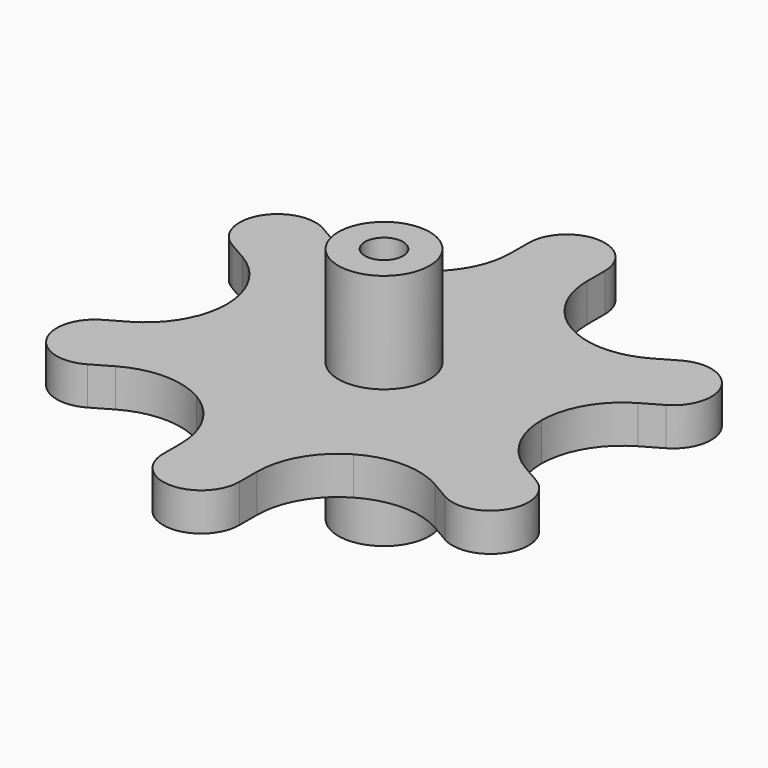
from build123d import *

# Parameters (mm, degrees)
F1_DEPTH = 1
F2_COUNT = 6
F3_R     = 2.4
F4_DEPTH = 6.25
F5_R     = 1
F6_DEPTH = 12.501


with BuildPart() as f1:
    # F0 (on Top) → F1 (new body, symmetric)
    with BuildSketch(Plane.XY):
        with BuildLine():
            Line((2, 10.8452994616), (2, 12))
            ThreePointArc((2, 12), (0, 14), (-2, 12))
            Line((-2, 12), (-2, 10.8452994616))
            ThreePointArc((-2, 10.8452994616), (-2.5709376404, 8.7145311798), (-4.1307682818, 7.1547005384))
            Line((-4.1307682818, 7.1547005384), (0, 0))
            Line((0, 0), (4.1307682818, 7.1547005384))
            ThreePointArc((4.1307682818, 7.1547005384), (2.5709376404, 8.7145311798), (2, 10.8452994616))
        make_face()
    extrude(amount=F1_DEPTH, both=True)

    # F2: F1 ×6 about axis
    f2_axis = Axis((0, 0, 0), (0, 0, -1))


with BuildPart() as f1_1:
    add(f1.part)
    for i in range(1, F2_COUNT):
        add(f1.part.rotate(f2_axis, i * 360 / F2_COUNT))

    # F3 (on Top) → F4 (join, symmetric)
    with BuildSketch(Plane.XY):
        Circle(F3_R)
    extrude(amount=F4_DEPTH, both=True)

    # F5 (on face) → F6 (cut, through all)
    with BuildSketch(Plane.XY.offset(6.25)):
        Circle(F5_R)
    extrude(amount=-F6_DEPTH, mode=Mode.SUBTRACT)


solid = f1_1.part
